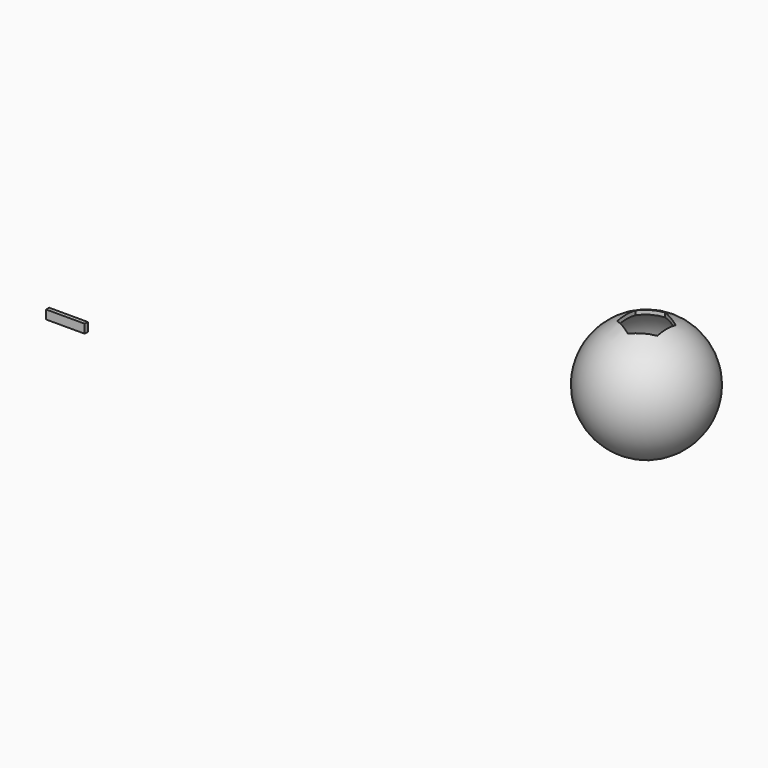
from build123d import *

# Parameters (mm, degrees)
F3_DEPTH      = 25
F4_W          = 7
F4_H          = 0.7
F5_DEPTH      = 1.5
F5_DEPTH_BACK = 0.1


with BuildPart() as f2:
    # F0 (on Top) → F2 (revolve)
    with BuildSketch(Plane.XY):
        with BuildLine():
            ThreePointArc((-10, 0), (0, 10), (10, 0))
            Line((10, 0), (10.7, 0))
            ThreePointArc((10.7, 0), (0, 10.7), (-10.7, 0))
            Line((-10.7, 0), (-10, 0))
        make_face()
    revolve(axis=Axis((-10.35, 0, 0), (1, 0, 0)))

    # F1 (on face) → F3 (cut)
    with BuildSketch(Plane.XY):
        Polygon((3.625, -2.092895), (3.625, 2.092895), (0, 4.185789), (-3.625, 2.092895), (-3.625, -2.092895), (0, -4.185789), align=None)
    extrude(amount=F3_DEPTH, mode=Mode.SUBTRACT)


with BuildPart() as f5:
    # F4 (on Top) → F5 (new body, two sides)
    with BuildSketch(Plane.XY) as f5_sk:
        with Locations((-75.510782, -36.971195)):
            Rectangle(F4_W, F4_H)
    extrude(amount=F5_DEPTH)
    extrude(f5_sk.sketch, amount=-F5_DEPTH_BACK)


solid = Compound([f2.part, f5.part])
